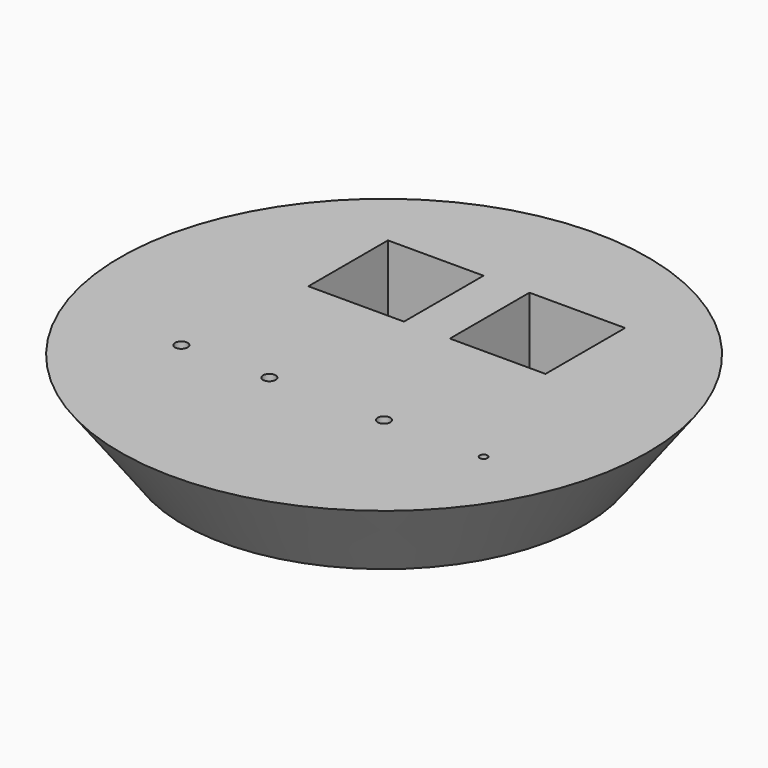
from build123d import *

# Parameters (mm, degrees)
F2_R     = 1.65
F2_R_2   = 1
F3_DEPTH = 25
F4_W     = 25
F4_H     = 26
F5_DEPTH = 18


with BuildPart() as f1:
    # F0 (on Front) → F1 (revolve)
    with BuildSketch(Plane.XZ):
        Polygon((0, 22), (0, 1), (42.5, 1), (42.5, 0), (52.5, 0), (69, 22), align=None)
    revolve(axis=Axis((0, 0, 11.5), (0, 0, 1)))

    # F2 (on face) → F3 (cut)
    with BuildSketch(Plane.XY.offset(22)):
        with Locations((-35, -22.5)):
            Circle(F2_R)
        with Locations((-12, -22.5)):
            Circle(F2_R)
        with Locations((18, -22.5)):
            Circle(F2_R)
        with Locations((44, -22.5)):
            Circle(F2_R_2)
    extrude(amount=-F3_DEPTH, mode=Mode.SUBTRACT)

    # F4 (on face) → F5 (cut)
    with BuildSketch(Plane.XY.offset(22)):
        with Locations((-18.5, 27)):
            Rectangle(F4_W, F4_H)
        with Locations((18.5, 27)):
            Rectangle(F4_W, F4_H)
    extrude(amount=-F5_DEPTH, mode=Mode.SUBTRACT)


solid = f1.part
